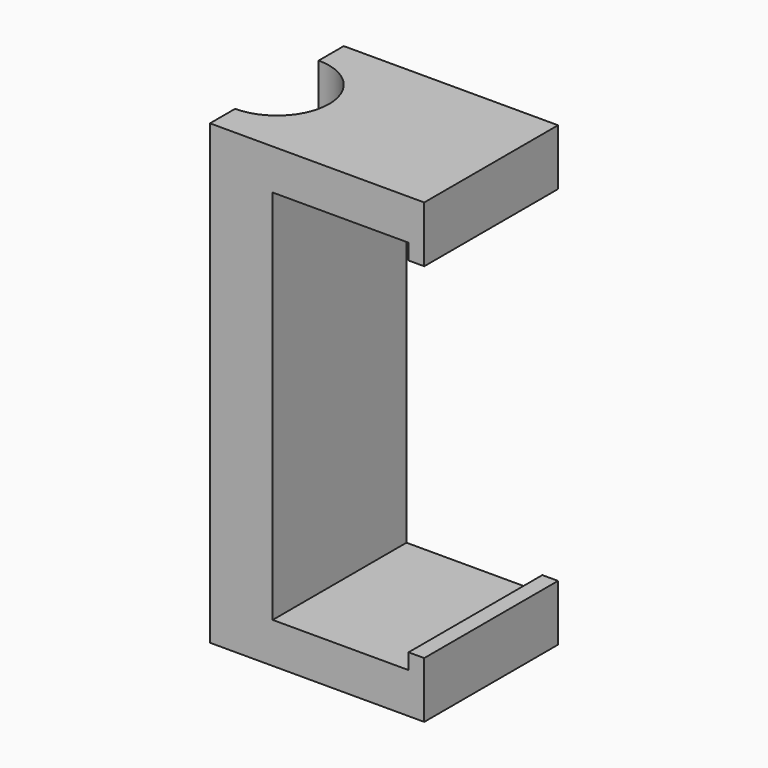
from build123d import *

# Parameters (mm, degrees)
F0_W     = 13
F0_H     = 3.876926
F1_DEPTH = 16
F3_DEPTH = 100


with BuildPart() as f1:
    # F0 (on Front) → F1 (new body)
    with BuildSketch(Plane.XZ):
        Polygon((-11.169232, 21.876926), (-17.169232, 21.876926), (-17.169232, 0), (-11.169232, 0), (-11.169232, 18), align=None)
        with Locations((-4.669232, 19.938463)):
            Rectangle(F0_W, F0_H)
        Polygon((-11.169232, 0), (-17.169232, 0), (-17.169232, -21.876926), (-11.169232, -21.876926), (-11.169232, -18), align=None)
        Polygon((3.330768, 21.876926), (1.830768, 21.876926), (1.830768, 18), (1.830768, 16.5), (3.330768, 16.5), align=None)
        with Locations((-4.669232, -19.938463)):
            Rectangle(F0_W, F0_H)
        Polygon((1.830768, -16.5), (1.830768, -18), (1.830768, -21.876926), (3.330768, -21.876926), (3.330768, -16.5), align=None)
    extrude(amount=F1_DEPTH)

    # F2 (on face) → F3 (cut)
    with BuildSketch(Plane.XY.offset(21.876926)):
        with BuildLine():
            ThreePointArc((-17.169232, -13), (-12.169232, -8), (-17.169232, -3))
            Line((-17.169232, -3), (-17.169232, -13))
        make_face()
    extrude(amount=-F3_DEPTH, mode=Mode.SUBTRACT)


solid = f1.part
